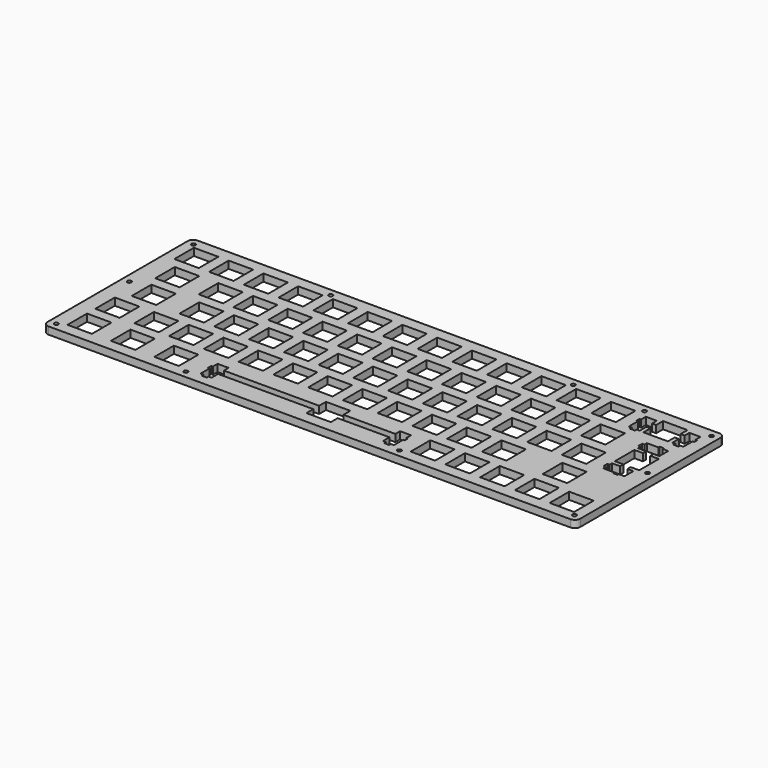
from build123d import *

# Parameters (mm, degrees)
F0_R     = 1.1
F1_DEPTH = 4
F2_W     = 13.40005
F2_H     = 13.39999
F2_W_2   = 13.3998
F2_W_3   = 13.4
F2_H_2   = 13.4001
F2_W_4   = 13.3999
F2_H_3   = 13.4003
F2_W_5   = 13.40008
F2_W_6   = 13.401
F2_W_7   = 13.399
F2_W_8   = 13.4001
F2_W_9   = 13.4013
F2_W_10  = 13.4003
F3_DEPTH = 4.001


with BuildPart() as f1:
    # F0 (on Top) → F1 (new body)
    with BuildSketch(Plane.XY):
        with BuildLine():
            Line((143, 51), (-143, 51))
            ThreePointArc((-143, 51), (-145.12132, 50.12132), (-146, 48))
            Line((-146, 48), (-146, -48))
            ThreePointArc((-146, -48), (-145.12132, -50.12132), (-143, -51))
            Line((-143, -51), (143, -51))
            ThreePointArc((143, -51), (145.12132, -50.12132), (146, -48))
            Line((146, -48), (146, 48))
            ThreePointArc((146, 48), (145.12132, 50.12132), (143, 51))
        make_face()
        with Locations((-142, -47)):
            Circle(F0_R, mode=Mode.SUBTRACT)
        with Locations((-71, -47)):
            Circle(F0_R, mode=Mode.SUBTRACT)
        with Locations((46, -47)):
            Circle(F0_R, mode=Mode.SUBTRACT)
        with Locations((142, -47)):
            Circle(F0_R, mode=Mode.SUBTRACT)
        with Locations((-142, 3)):
            Circle(F0_R, mode=Mode.SUBTRACT)
        with Locations((-142, 47)):
            Circle(F0_R, mode=Mode.SUBTRACT)
        with Locations((-66.825, 47)):
            Circle(F0_R, mode=Mode.SUBTRACT)
        with Locations((142, 3)):
            Circle(F0_R, mode=Mode.SUBTRACT)
        with Locations((66.175, 47)):
            Circle(F0_R, mode=Mode.SUBTRACT)
        with Locations((105.175, 47)):
            Circle(F0_R, mode=Mode.SUBTRACT)
        with Locations((142, 47)):
            Circle(F0_R, mode=Mode.SUBTRACT)
    extrude(amount=F1_DEPTH)

    # F2 (on face) → F3 (cut, through all)
    with BuildSketch(Plane.XY.offset(4)):
        Polygon((-6.7, -36.099797), (-18.607353, -36.099797), (-58.881453, -36.099797), (-58.881453, -32.869597), (-64.930853, -32.869597), (-64.930853, -36.099797), (-65.806153, -36.099797), (-65.806153, -38.300467), (-64.930853, -38.300467), (-64.930853, -44.570557), (-63.256553, -44.570557), (-63.256553, -45.770827), (-60.557153, -45.770827), (-60.557153, -44.570557), (-58.881453, -44.570557), (-58.881453, -40.100197), (-18.607353, -40.100197), (-6.7, -40.100197), (-6.7, -44.8), (6.7, -44.8), (6.7, -40.100197), (35.068647, -40.100197), (35.068647, -44.570557), (36.743647, -44.570557), (36.743647, -45.770827), (39.442647, -45.770827), (39.442647, -44.570557), (41.118647, -44.570557), (41.118647, -38.300467), (41.993647, -38.300467), (41.993647, -36.099797), (41.118647, -36.099797), (41.118647, -32.869597), (35.068647, -32.869597), (35.068647, -36.099797), (6.7, -36.099797), (6.7, -31.4), (-6.7, -31.4), align=None)
        with Locations((-130.967978, -38.100692)):
            Rectangle(F2_W, F2_H)
        with Locations((-107.156953, -38.100692)):
            Rectangle(F2_W_2, F2_H)
        with Locations((-83.343053, -38.100692)):
            Rectangle(F2_W_3, F2_H)
        with Locations((57.150647, -38.100692)):
            Rectangle(F2_W_3, F2_H)
        with Locations((76.200647, -38.100692)):
            Rectangle(F2_W_3, F2_H)
        with Locations((95.250647, -38.100692)):
            Rectangle(F2_W_3, F2_H)
        with Locations((114.300647, -38.100692)):
            Rectangle(F2_W_3, F2_H)
        with Locations((133.350647, -38.100692)):
            Rectangle(F2_W_3, F2_H)
        with Locations((-130.967978, -19.050647)):
            Rectangle(F2_W, F2_H_2)
        with Locations((-109.538203, -19.050647)):
            Rectangle(F2_W_4, F2_H_2)
        with Locations((-90.488203, -19.050647)):
            Rectangle(F2_W_4, F2_H_2)
        with Locations((-71.438203, -19.050647)):
            Rectangle(F2_W_4, F2_H_2)
        with Locations((-52.388203, -19.050647)):
            Rectangle(F2_W_4, F2_H_2)
        with Locations((-33.338353, -19.050647)):
            Rectangle(F2_W_3, F2_H_2)
        with Locations((-14.288353, -19.050647)):
            Rectangle(F2_W_3, F2_H_2)
        with Locations((4.761647, -19.050647)):
            Rectangle(F2_W_3, F2_H_2)
        with Locations((23.811647, -19.050647)):
            Rectangle(F2_W_3, F2_H_2)
        with Locations((42.861647, -19.050647)):
            Rectangle(F2_W_3, F2_H_2)
        with Locations((61.911647, -19.050647)):
            Rectangle(F2_W_3, F2_H_2)
        with Locations((80.961647, -19.050647)):
            Rectangle(F2_W_3, F2_H_2)
        with Locations((114.300647, -19.050647)):
            Rectangle(F2_W_3, F2_H_2)
        with Locations((-126.206853, -0.000747)):
            Rectangle(F2_W_3, F2_H_3)
        with Locations((-100.013203, -0.000747)):
            Rectangle(F2_W_4, F2_H_3)
        with Locations((-80.963203, -0.000747)):
            Rectangle(F2_W_4, F2_H_3)
        with Locations((-61.913203, -0.000747)):
            Rectangle(F2_W_4, F2_H_3)
        with Locations((-42.863253, -0.000747)):
            Rectangle(F2_W_2, F2_H_3)
        with Locations((-23.813353, -0.000747)):
            Rectangle(F2_W_3, F2_H_3)
        with Locations((-4.763353, -0.000747)):
            Rectangle(F2_W_3, F2_H_3)
        with Locations((14.286647, -0.000747)):
            Rectangle(F2_W_3, F2_H_3)
        with Locations((33.336647, -0.000747)):
            Rectangle(F2_W_3, F2_H_3)
        with Locations((52.386647, -0.000747)):
            Rectangle(F2_W_3, F2_H_3)
        with Locations((71.436647, -0.000747)):
            Rectangle(F2_W_3, F2_H_3)
        with Locations((90.486647, -0.000747)):
            Rectangle(F2_W_3, F2_H_3)
        with Locations((109.536647, -0.000747)):
            Rectangle(F2_W_3, F2_H_3)
        Polygon((132.968647, 25.374403), (130.768647, 25.374403), (130.768647, 24.499503), (124.497647, 24.499503), (124.497647, 22.825203), (123.297647, 22.825203), (123.297647, 20.124403), (124.497647, 20.124403), (124.497647, 18.451103), (128.968647, 18.451103), (128.968647, 16.225803), (124.267647, 16.225803), (124.267647, 2.824103), (128.968647, 2.824103), (128.968647, 0.600203), (124.497647, 0.600203), (124.497647, -1.075497), (123.297647, -1.075497), (123.297647, -3.773897), (124.497647, -3.773897), (124.497647, -5.450997), (130.768647, -5.450997), (130.768647, -6.325897), (132.968647, -6.325897), (132.968647, -5.450997), (136.197647, -5.450997), (136.197647, 0.600203), (132.968647, 0.600203), (132.968647, 2.824103), (137.667647, 2.824103), (137.667647, 16.225803), (132.968647, 16.225803), (132.968647, 18.451103), (136.197647, 18.451103), (136.197647, 24.499503), (132.968647, 24.499503), align=None)
        with Locations((-128.588093, 19.049253)):
            Rectangle(F2_W_5, F2_H_3)
        with Locations((-104.774303, 19.049253)):
            Rectangle(F2_W_4, F2_H_3)
        with Locations((-85.724303, 19.049253)):
            Rectangle(F2_W_4, F2_H_3)
        with Locations((-66.674303, 19.049253)):
            Rectangle(F2_W_4, F2_H_3)
        with Locations((-47.624303, 19.049253)):
            Rectangle(F2_W_4, F2_H_3)
        with Locations((-28.574853, 19.049253)):
            Rectangle(F2_W_6, F2_H_3)
        with Locations((-9.524353, 19.049253)):
            Rectangle(F2_W_3, F2_H_3)
        with Locations((9.525647, 19.049253)):
            Rectangle(F2_W_3, F2_H_3)
        with Locations((28.575647, 19.049253)):
            Rectangle(F2_W_3, F2_H_3)
        with Locations((47.625647, 19.049253)):
            Rectangle(F2_W_3, F2_H_3)
        with Locations((66.675647, 19.049253)):
            Rectangle(F2_W_3, F2_H_3)
        with Locations((85.725647, 19.049253)):
            Rectangle(F2_W_3, F2_H_3)
        with Locations((104.775147, 19.049253)):
            Rectangle(F2_W_7, F2_H_3)
        Polygon((130.525647, 44.799403), (117.125647, 44.799403), (117.125647, 40.100403), (114.899647, 40.100403), (114.899647, 43.330403), (108.849647, 43.330403), (108.849647, 40.100403), (107.974647, 40.100403), (107.974647, 37.900803), (108.849647, 37.900803), (108.849647, 31.630903), (110.524647, 31.630903), (110.524647, 30.430403), (113.224647, 30.430403), (113.224647, 31.630903), (114.899647, 31.630903), (114.899647, 36.099903), (117.125647, 36.099903), (117.125647, 31.399103), (130.525647, 31.399103), (130.525647, 36.099903), (132.749647, 36.099903), (132.749647, 31.630903), (134.425647, 31.630903), (134.425647, 30.430403), (137.124647, 30.430403), (137.124647, 31.630903), (138.800647, 31.630903), (138.800647, 37.900803), (139.675647, 37.900803), (139.675647, 40.100403), (138.800647, 40.100403), (138.800647, 43.330403), (132.749647, 43.330403), (132.749647, 40.100403), (130.525647, 40.100403), align=None)
        with Locations((-133.349203, 38.099253)):
            Rectangle(F2_W_8, F2_H_3)
        with Locations((-114.299303, 38.099253)):
            Rectangle(F2_W_4, F2_H_3)
        with Locations((-95.250003, 38.099253)):
            Rectangle(F2_W_9, F2_H_3)
        with Locations((-76.200003, 38.099253)):
            Rectangle(F2_W_9, F2_H_3)
        with Locations((-57.150003, 38.099253)):
            Rectangle(F2_W_9, F2_H_3)
        with Locations((-38.100503, 38.099253)):
            Rectangle(F2_W_10, F2_H_3)
        with Locations((-19.049353, 38.099253)):
            Rectangle(F2_W_3, F2_H_3)
        with Locations((0.000647, 38.099253)):
            Rectangle(F2_W_3, F2_H_3)
        with Locations((19.050647, 38.099253)):
            Rectangle(F2_W_3, F2_H_3)
        with Locations((38.100647, 38.099253)):
            Rectangle(F2_W_3, F2_H_3)
        with Locations((57.150647, 38.099253)):
            Rectangle(F2_W_3, F2_H_3)
        with Locations((76.200647, 38.099253)):
            Rectangle(F2_W_3, F2_H_3)
        with Locations((95.250647, 38.099253)):
            Rectangle(F2_W_3, F2_H_3)
    extrude(amount=-F3_DEPTH, mode=Mode.SUBTRACT)


solid = f1.part
